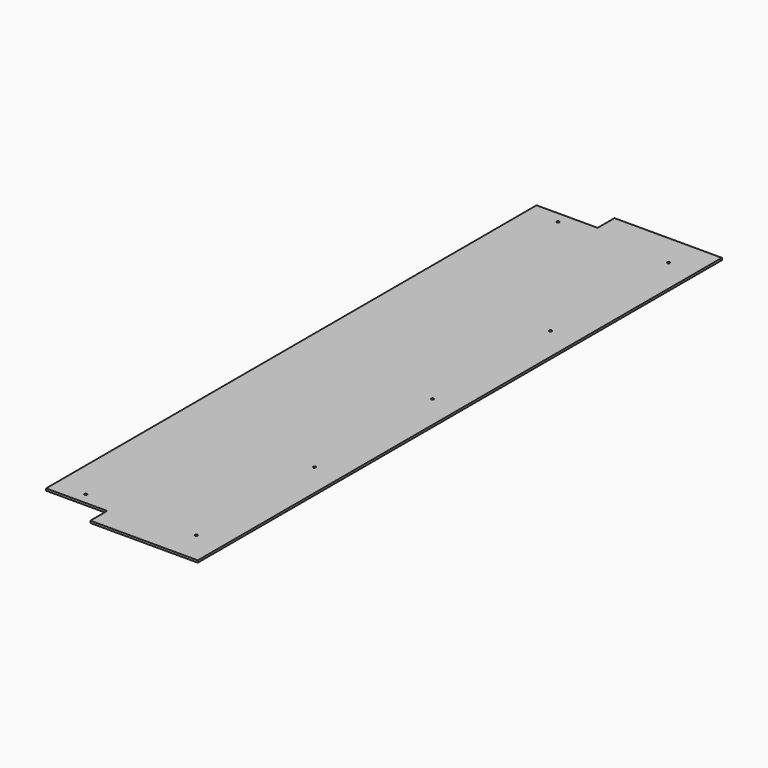
from build123d import *

# Parameters (mm, degrees)
F0_W     = 255
F0_H     = 50
F1_DEPTH = 5
F2_R     = 3
F3_DEPTH = 5.001


with BuildPart() as f1:
    # F0 (on Top) → F1 (new body)
    with BuildSketch(Plane.XY):
        Polygon((200, -727.5), (200, 727.5), (-55, 727.5), (-200, 727.5), (-200, -727.5), (-55, -727.5), align=None)
        with Locations((72.5, -752.5)):
            Rectangle(F0_W, F0_H)
        with Locations((72.5, 752.5)):
            Rectangle(F0_W, F0_H)
    extrude(amount=F1_DEPTH)

    # F2 (on face) → F3 (cut, through all)
    with BuildSketch(Plane.XY.offset(5)):
        with Locations((135, 0)):
            Circle(F2_R)
        with Locations((-127.5, -700.58465)):
            Circle(F2_R)
        with Locations((135, -700.58465)):
            Circle(F2_R)
        with Locations((135, -350.292325)):
            Circle(F2_R)
        with Locations((-127.5, 700.58465)):
            Circle(F2_R)
        with Locations((135, 700.58465)):
            Circle(F2_R)
        with Locations((135, 350.292325)):
            Circle(F2_R)
    extrude(amount=-F3_DEPTH, mode=Mode.SUBTRACT)


solid = f1.part
